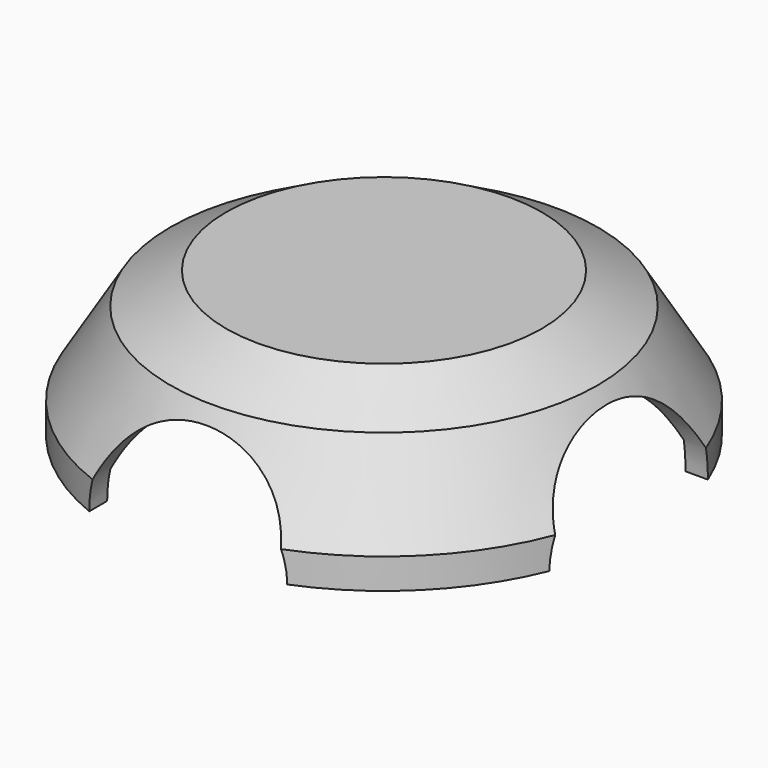
from build123d import *

# Parameters (mm, degrees)
F2_R          = 6
F3_DEPTH      = 25
F3_DEPTH_BACK = 25
F4_R          = 6
F5_DEPTH      = 25
F5_DEPTH_BACK = 25


with BuildPart() as f1:
    # F0 (on Front) → F1 (revolve)
    with BuildSketch(Plane.XZ):
        Polygon((14.75, 1.8402526621), (14.75, 0), (16, 0), (16, 1.8402526621), (12.959116371, 6.8669730598), (9.5678537413, 8.778959482), (0, 8.778959482), (0, 8.278959482), (8.0359548395, 8.278959482), (12.3140602287, 5.8669730598), align=None)
    revolve(axis=Axis((0, 0, 4.778959482), (0, 0, 1)))

    # F2 (on Front) → F3 (cut, two sides)
    with BuildSketch(Plane.XZ) as f3_sk:
        Circle(F2_R)
    extrude(amount=-F3_DEPTH, mode=Mode.SUBTRACT)
    extrude(f3_sk.sketch, amount=F3_DEPTH_BACK, mode=Mode.SUBTRACT)

    # F4 (on Right) → F5 (cut, two sides)
    with BuildSketch(Plane.YZ) as f5_sk:
        Circle(F4_R)
    extrude(amount=-F5_DEPTH, mode=Mode.SUBTRACT)
    extrude(f5_sk.sketch, amount=F5_DEPTH_BACK, mode=Mode.SUBTRACT)


solid = f1.part
